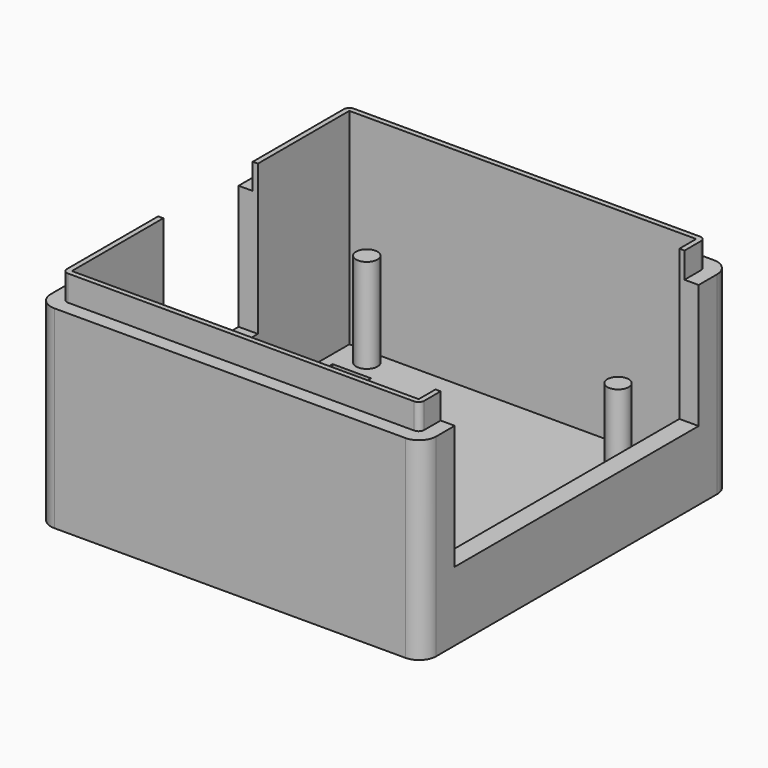
from build123d import *

# Parameters (mm, degrees)
F0_W      = 40.5
F0_H      = 40.5
F1_DEPTH  = 1.6
F2_DEPTH  = 22.6
F3_W      = 40.5
F3_H      = 40.5
F4_DEPTH  = 3
F5_W      = 35.6
F5_H      = 14.5
F5_H_2    = 3
F6_DEPTH  = 5
F7_W      = 13.8
F7_H      = 14.5
F7_H_2    = 3
F8_DEPTH  = 5
F9_W      = 4.5
F9_H      = 16
F9_H_2    = 32.5
F10_DEPTH = 5
F11_R     = 1.25
F12_DEPTH = 11


with BuildPart() as f1:
    # F0 (on Top) → F1 (new body)
    with BuildSketch(Plane.XY):
        Rectangle(F0_W, F0_H)
    extrude(amount=F1_DEPTH)

    # F0 (on Top) → F2 (join)
    with BuildSketch(Plane.XY):
        with BuildLine():
            Line((20.5, 22.5), (-20.5, 22.5))
            ThreePointArc((-20.5, 22.5), (-21.9142135624, 21.9142135624), (-22.5, 20.5))
            Line((-22.5, 20.5), (-22.5, -20.5))
            ThreePointArc((-22.5, -20.5), (-21.9142135624, -21.9142135624), (-20.5, -22.5))
            Line((-20.5, -22.5), (20.5, -22.5))
            ThreePointArc((20.5, -22.5), (21.9142135624, -21.9142135624), (22.5, -20.5))
            Line((22.5, -20.5), (22.5, 20.5))
            ThreePointArc((22.5, 20.5), (21.9142135624, 21.9142135624), (20.5, 22.5))
        make_face()
        Rectangle(F0_W, F0_H, mode=Mode.SUBTRACT)
    extrude(amount=F2_DEPTH)

    # F3 (on face) → F4 (join)
    with BuildSketch(Plane.XY.offset(22.6)):
        with BuildLine():
            Line((20.2, 20.85), (-20.2, 20.85))
            ThreePointArc((-20.2, 20.85), (-20.6596194078, 20.6596194078), (-20.85, 20.2))
            Line((-20.85, 20.2), (-20.85, -20.2))
            ThreePointArc((-20.85, -20.2), (-20.6596194078, -20.6596194078), (-20.2, -20.85))
            Line((-20.2, -20.85), (20.2, -20.85))
            ThreePointArc((20.2, -20.85), (20.6596194078, -20.6596194078), (20.85, -20.2))
            Line((20.85, -20.2), (20.85, 20.2))
            ThreePointArc((20.85, 20.2), (20.6596194078, 20.6596194078), (20.2, 20.85))
        make_face()
        Rectangle(F3_W, F3_H, mode=Mode.SUBTRACT)
    extrude(amount=F4_DEPTH)

    # F5 (on face) → F6 (cut)
    with BuildSketch(Plane.YZ.offset(22.5)):
        with Locations((0, 15.35)):
            Rectangle(F5_W, F5_H)
        with Locations((0, 24.1)):
            Rectangle(F5_W, F5_H_2)
    extrude(amount=-F6_DEPTH, mode=Mode.SUBTRACT)

    # F7 (on face) → F8 (cut)
    with BuildSketch(Plane(origin=(-22.5, 0, 0), x_dir=(0, -1, 0), z_dir=(-1, 0, 0))):
        with Locations((0, 15.35)):
            Rectangle(F7_W, F7_H)
        with Locations((0, 24.1)):
            Rectangle(F7_W, F7_H_2)
    extrude(amount=-F8_DEPTH, mode=Mode.SUBTRACT)

    # F9 (on face) → F10 (cut)
    with BuildSketch(Plane.XY.offset(1.6)):
        with Locations((16, 0)):
            Rectangle(F9_W, F9_H)
        with BuildLine():
            Line((20.25, -19.3791561976), (20.25, -17.7208438024))
            ThreePointArc((20.25, -17.7208438024), (17.5, -18.55), (20.25, -19.3791561976))
        make_face()
        with BuildLine():
            ThreePointArc((20.25, -19.3791561976), (20.4361406616, -18.9830127019), (20.5, -18.55))
            ThreePointArc((20.5, -18.55), (20.4361406616, -18.1169872981), (20.25, -17.7208438024))
            Line((20.25, -17.7208438024), (20.25, -19.3791561976))
        make_face()
        with Locations((-16.75, 0)):
            Rectangle(F9_W, F9_H_2)
    extrude(amount=-F10_DEPTH, mode=Mode.SUBTRACT)

    # F11 (on face) → F12 (join)
    with BuildSketch(Plane.XY.offset(1.6)):
        with Locations((16.8683137745, 13.0740953609)):
            Circle(F11_R)
        with Locations((-16.75, 18.4307503104)):
            Circle(F11_R)
        with Locations((-16.75, -18.3533816189)):
            Circle(F11_R)
        with Locations((13.195104897, -16.7595241219)):
            Circle(F11_R)
    extrude(amount=F12_DEPTH)


solid = f1.part
